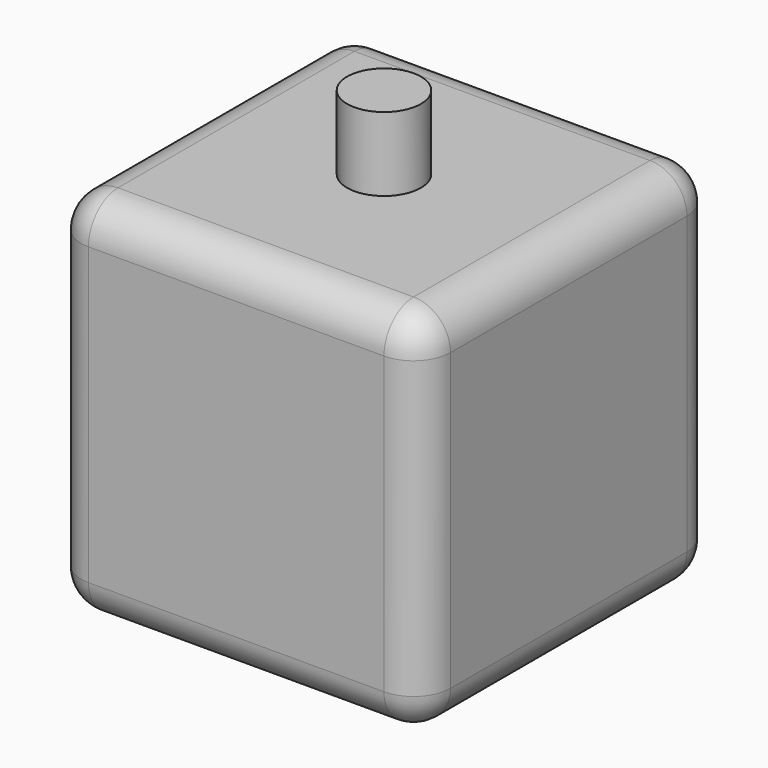
from build123d import *

# Parameters (mm, degrees)
F0_W     = 100
F0_H     = 100
F1_DEPTH = 100
F2_R     = 10
F3_DEPTH = 20
F4_R     = 10


with BuildPart() as f1:
    # F0 (on Top) → F1 (new body)
    with BuildSketch(Plane.XY):
        with Locations((50, 50)):
            Rectangle(F0_W, F0_H)
    extrude(amount=F1_DEPTH)

    # F2 (on face) → F3 (join)
    with BuildSketch(Plane.XY.offset(100)):
        with Locations((50, 50)):
            Circle(F2_R)
    extrude(amount=F3_DEPTH)

    # F4
    f4_edges = [f1.edges().sort_by_distance(p)[0] for p in [
        (0, 0, 50),
        (100, 0, 50),
        (50, 0, 0),
        (50, 0, 100),
        (100, 100, 50),
        (100, 50, 0),
        (100, 50, 100),
        (0, 100, 50),
        (50, 100, 0),
        (50, 100, 100),
        (0, 50, 0),
        (0, 50, 100),
    ]]
    fillet(f4_edges, radius=F4_R)


solid = f1.part
